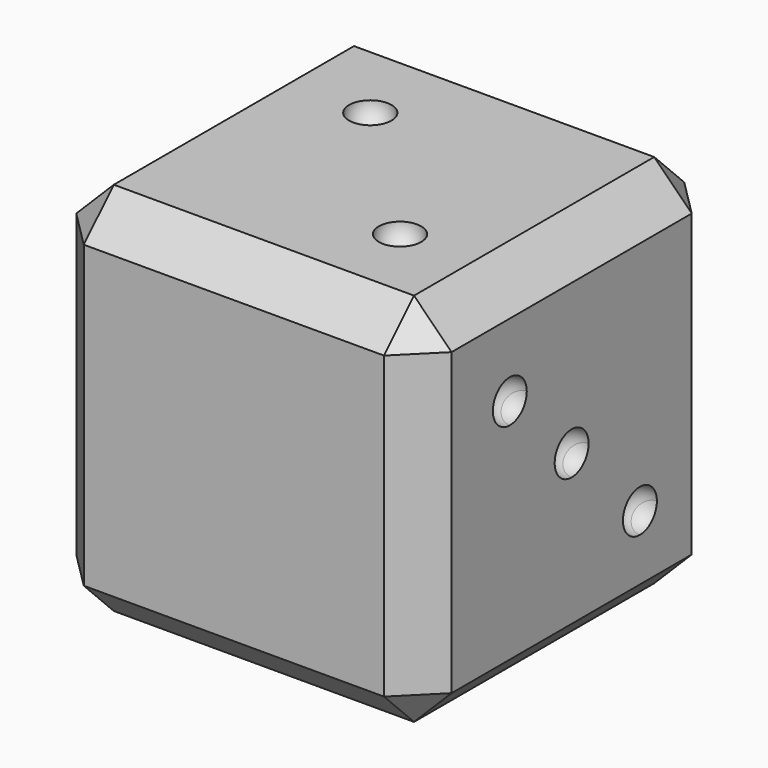
from build123d import *

# Parameters (mm, degrees)
F0_W     = 50.7999993861
F0_H     = 50.8000031114
F1_DEPTH = 50.8
F2_SIZE  = 5.08


with BuildPart() as f1:
    # F0 (on Front) → F1 (new body)
    with BuildSketch(Plane.XZ):
        with Locations((25.399999693, 25.4000015557)):
            Rectangle(F0_W, F0_H)
    extrude(amount=F1_DEPTH)

    # F2
    f2_edges = [f1.edges().sort_by_distance(p)[0] for p in [
        (25.4, -50.8, 50.800003),
        (0, -50.8, 25.400002),
        (25.4, -50.8, 0),
        (50.799999, -50.8, 25.400002),
        (50.799999, -25.4, 50.800003),
        (25.4, 0, 50.800003),
        (0, -25.4, 50.800003),
        (0, 0, 25.400002),
        (25.4, 0, 0),
        (50.799999, 0, 25.400002),
        (0, -25.4, 0),
        (50.799999, -25.4, 0),
    ]]
    chamfer(f2_edges, length=F2_SIZE)

    # F3 (on face) → F4 (revolve, cut)
    with BuildSketch(Plane(origin=(0, 0, 0), x_dir=(-1, 0, 0), z_dir=(0, 1, 0))):
        with BuildLine():
            Line((-25.399999693, 28.2762738749), (-25.399999693, 22.5237292365))
            ThreePointArc((-25.399999693, 22.5237292365), (-23.3661680316, 23.3661698942), (-22.5237273738, 25.4000015557))
            ThreePointArc((-22.5237273738, 25.4000015557), (-23.3661680316, 27.4338332171), (-25.399999693, 28.2762738749))
        make_face()
    revolve(axis=Axis((25.399999693, 0, 25.4000015557), (0, 0, 1)), mode=Mode.SUBTRACT)

    # F5 (on face) → F6 (revolve, cut)
    with BuildSketch(Plane.XY.offset(50.8000031114)):
        with BuildLine():
            Line((33.7353862623, -33.6240240537), (37.8023569838, -37.6751894799))
            ThreePointArc((37.8023569838, -37.6751894799), (38.4216586219, -36.745402906), (38.639071623, -35.6496067668))
            ThreePointArc((38.639071623, -35.6496067668), (36.8646677623, -32.9968197679), (33.7353862623, -33.6240240537))
        make_face()
        with BuildLine():
            ThreePointArc((18.8353189816, -15.9228166067), (17.0609151208, -13.2700296079), (13.9316336208, -13.8972338936))
            Line((13.9316336208, -13.8972338936), (17.9986043423, -17.9483993198))
            ThreePointArc((17.9986043423, -17.9483993198), (18.6179059804, -17.018612746), (18.8353189816, -15.9228166067))
        make_face()
    revolve(axis=Axis((25.2446672624, -25.1663021739, 50.8000031114), (-0.708482113, 0.7057287691, 0)), mode=Mode.SUBTRACT)

    # F7 (on face) → F8 (revolve, cut)
    with BuildSketch(Plane.YZ.offset(50.7999993861)):
        with BuildLine():
            ThreePointArc((-32.9918336927, 35.8620360494), (-34.7636556544, 38.5137550626), (-37.8915714984, 37.8915740104))
            Line((-37.8915714984, 37.8915740104), (-33.832495887, 33.8324980883))
            ThreePointArc((-33.832495887, 33.8324980883), (-33.2103146795, 34.763658011), (-32.9918336927, 35.8620360494))
        make_face()
        with BuildLine():
            ThreePointArc((-22.5298, 25.4000015557), (-24.3016219617, 28.0517205689), (-27.4295378057, 27.4295395167))
            Line((-27.4295378057, 27.4295395167), (-23.3704621943, 23.3704635946))
            ThreePointArc((-23.3704621943, 23.3704635946), (-22.7482809868, 24.3016235174), (-22.5298, 25.4000015557))
        make_face()
        with BuildLine():
            Line((-15.8805371302, 15.8805379571), (-11.8214615189, 11.821462035))
            ThreePointArc((-11.8214615189, 11.821462035), (-11.1992803114, 12.7526219577), (-10.9807993246, 13.8509999961))
            ThreePointArc((-10.9807993246, 13.8509999961), (-12.7526212862, 16.5027190093), (-15.8805371302, 15.8805379571))
        make_face()
    revolve(axis=Axis((50.7999993861, -25.4, 25.4000015557), (0, 0.7071067541, -0.7071068083)), mode=Mode.SUBTRACT)


solid = f1.part
